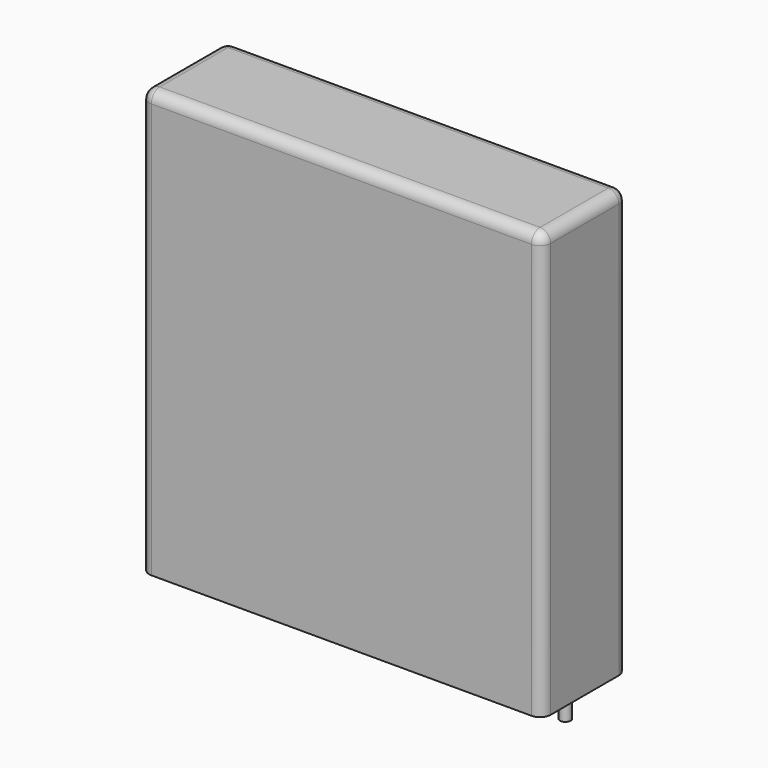
from build123d import *

# Parameters (mm, degrees)
SKETCH_W     = 41.5
SKETCH_H     = 11
PAD_DEPTH    = 44
FILLET_R     = 1.1
SKETCH001_R  = 0.55
PAD001_DEPTH = 3.2


with BuildPart() as fillet_body:
    # Sketch → Pad (new body)
    with BuildSketch(Plane.XY.offset(0.1)):
        with Locations((18.75, 0)):
            Rectangle(SKETCH_W, SKETCH_H)
    extrude(amount=PAD_DEPTH)

    # Fillet
    fillet_edges = [fillet_body.edges().sort_by_distance(p)[0] for p in [
        (-2, 0, 44.1),
        (-2, -5.5, 22.1),
        (18.75, -5.5, 44.1),
        (39.5, -5.5, 22.1),
        (39.5, 0, 44.1),
        (39.5, 5.5, 22.1),
        (18.75, 5.5, 44.1),
        (-2, 5.5, 22.1),
    ]]
    fillet(fillet_edges, radius=FILLET_R)


with BuildPart() as pad001:
    # Sketch001 → Pad001 (new body)
    with BuildSketch(Plane.XY.offset(0.5)):
        Circle(SKETCH001_R)
        with Locations((37.5, 0)):
            Circle(SKETCH001_R)
    extrude(amount=-PAD001_DEPTH)


solid = Compound([fillet_body.part, pad001.part])
